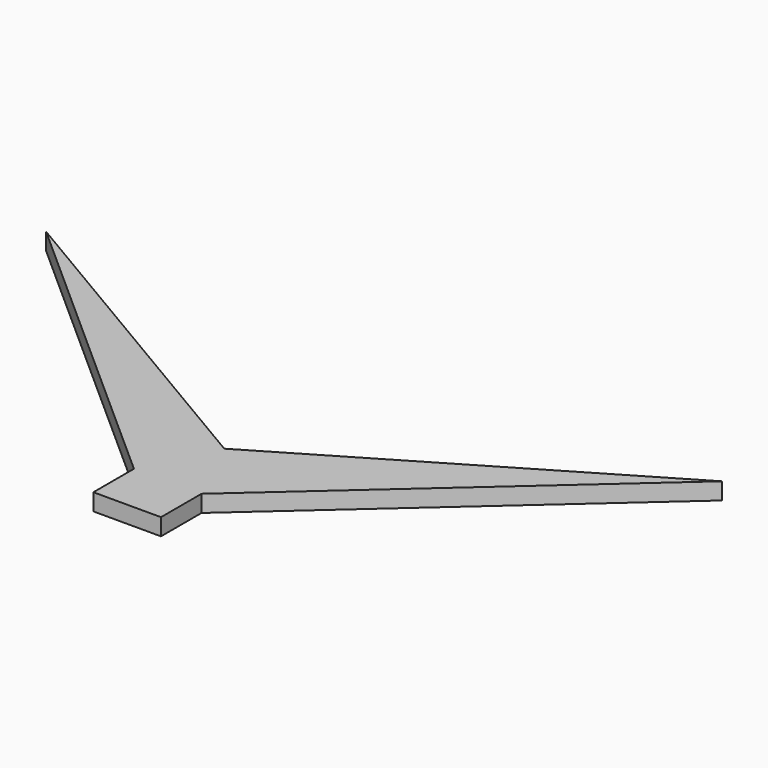
from build123d import *

# Parameters (mm, degrees)
F0_W     = 6.35
F0_H     = 9.525
F1_DEPTH = 3.175


with BuildPart() as f1:
    # F0 (on Top) → F1 (new body)
    with BuildSketch(Plane.XY):
        Polygon((6.35, 9.525), (6.35, 0), (63.5, 50.8), (0, 13.277273), align=None)
        Polygon((-63.5, 50.8), (-6.35, 0), (-6.35, 9.525), (0, 13.277273), align=None)
        Polygon((0, 13.277273), (-6.35, 9.525), (0, 9.525), align=None)
        Polygon((0, 9.525), (6.35, 9.525), (0, 13.277273), align=None)
        with Locations((-3.175, 4.7625)):
            Rectangle(F0_W, F0_H)
        with Locations((3.175, 4.7625)):
            Rectangle(F0_W, F0_H)
        Polygon((-6.35, -9.525), (6.35, -9.525), (6.35, 0), (0, 0), (-6.35, 0), align=None)
    extrude(amount=F1_DEPTH)


solid = f1.part
